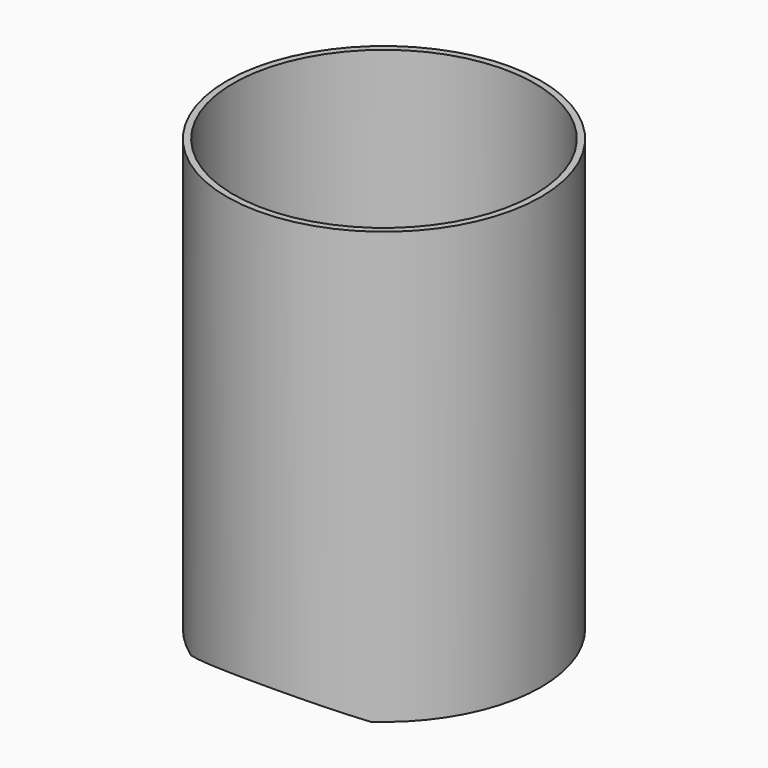
from build123d import *

# Parameters (mm, degrees)
F0_R     = 18.2
F0_R_2   = 17.45
F1_DEPTH = 50
F3_DEPTH = 95


with BuildPart() as f1:
    # F0 (on Top) → F1 (new body)
    with BuildSketch(Plane.XY):
        Circle(F0_R)
        Circle(F0_R_2, mode=Mode.SUBTRACT)
    extrude(amount=F1_DEPTH)

    # F2 (on Front) → F3 (cut, symmetric)
    with BuildSketch(Plane.XZ):
        with BuildLine():
            ThreePointArc((10.4, 0), (0, 1.860348), (-10.4, 0))
            Line((-10.4, 0), (10.4, 0))
        make_face()
    extrude(amount=F3_DEPTH, both=True, mode=Mode.SUBTRACT)


solid = f1.part
